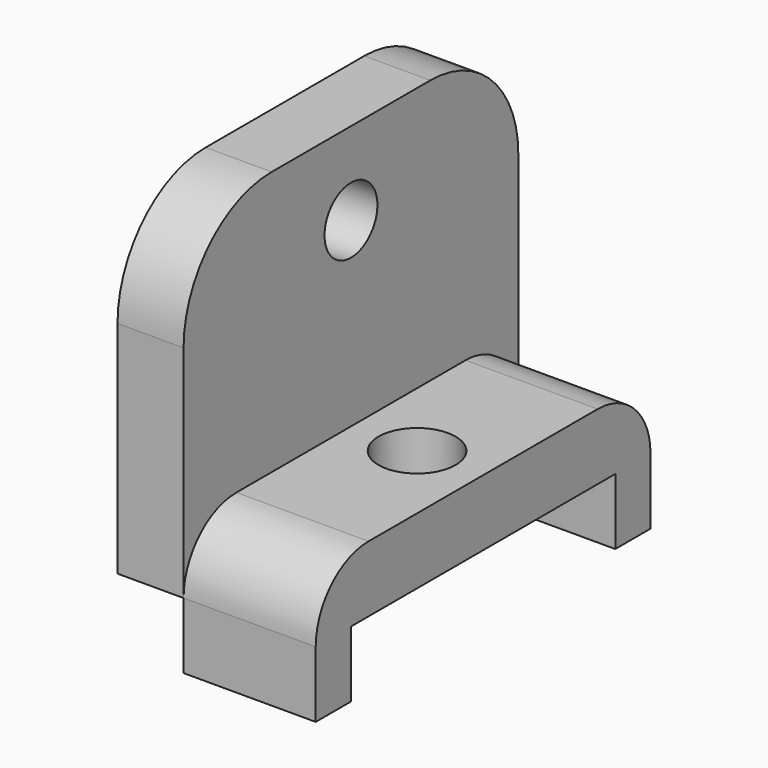
from build123d import *

# Parameters (mm, degrees)
F0_W     = 6
F0_H     = 19
F1_DEPTH = 3
F2_W     = 6
F2_H     = 2
F3_DEPTH = 3
F4_R     = 1.75
F5_DEPTH = 3
F6_W     = 19
F6_H     = 12
F7_DEPTH = 3
F8_R     = 1.5
F9_DEPTH = 3
F10_R    = 5
F11_R    = 3


with BuildPart() as f1:
    # F0 (on Top) → F1 (new body)
    with BuildSketch(Plane.XY):
        with Locations((3, 0)):
            Rectangle(F0_W, F0_H)
    extrude(amount=F1_DEPTH)

    # F2 (on face) → F3 (join)
    with BuildSketch(Plane(origin=(0, 0, 0), x_dir=(1, 0, 0), z_dir=(0, 0, -1))):
        with Locations((3, 8.5)):
            Rectangle(F2_W, F2_H)
        with Locations((3, -8.5)):
            Rectangle(F2_W, F2_H)
    extrude(amount=F3_DEPTH)

    # F4 (on face) → F5 (cut)
    with BuildSketch(Plane.XY.offset(3)):
        with Locations((3, 0)):
            Circle(F4_R)
    extrude(amount=-F5_DEPTH, mode=Mode.SUBTRACT)

    # F6 (on face) → F7 (join)
    with BuildSketch(Plane(origin=(0, 0, 0), x_dir=(0, -1, 0), z_dir=(-1, 0, 0))):
        with Locations((0, 9)):
            Rectangle(F6_W, F6_H)
        Polygon((-9.5, 3), (-9.5, 0), (-7.5, 0), (7.5, 0), (9.5, 0), (9.5, 3), align=None)
    extrude(amount=F7_DEPTH)

    # F8 (on face) → F9 (cut)
    with BuildSketch(Plane.YZ):
        with Locations((0, 11.2423589453)):
            Circle(F8_R)
    extrude(amount=-F9_DEPTH, mode=Mode.SUBTRACT)

    # F10
    f10_edges = [f1.edges().sort_by_distance(p)[0] for p in [
        (-1.5, -9.5, 15),
        (-1.5, 9.5, 15),
    ]]
    fillet(f10_edges, radius=F10_R)

    # F11
    f11_edges = [f1.edges().sort_by_distance(p)[0] for p in [
        (3, -9.5, 3),
        (3, 9.5, 3),
    ]]
    fillet(f11_edges, radius=F11_R)


solid = f1.part
